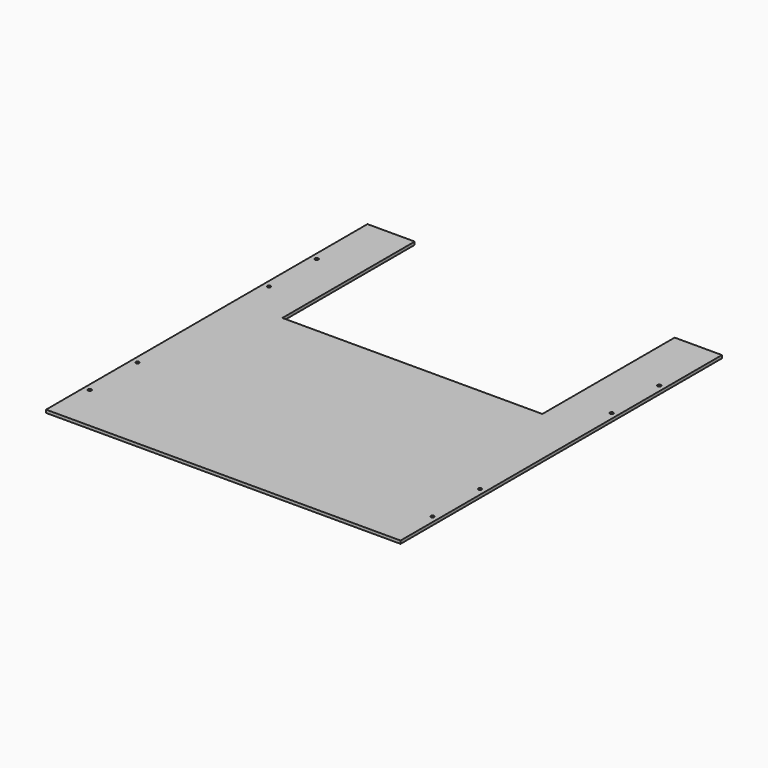
from build123d import *

# Parameters (mm, degrees)
F0_R     = 1.85
F1_DEPTH = 3.175


with BuildPart() as f1:
    # F0 (on Top) → F1 (new body)
    with BuildSketch(Plane.XY):
        Polygon((190.5, -215.9), (190.5, 215.9), (139.7, 215.9), (139.7, 38.1), (-139.7, 38.1), (-139.7, 215.9), (-190.5, 215.9), (-190.5, -215.9), align=None)
        with Locations((-184.15, -165.1)):
            Circle(F0_R, mode=Mode.SUBTRACT)
        with Locations((-184.15, -101.1)):
            Circle(F0_R, mode=Mode.SUBTRACT)
        with Locations((184.15, -165.1)):
            Circle(F0_R, mode=Mode.SUBTRACT)
        with Locations((184.15, -101.1)):
            Circle(F0_R, mode=Mode.SUBTRACT)
        with Locations((-184.15, 75.7)):
            Circle(F0_R, mode=Mode.SUBTRACT)
        with Locations((-184.15, 139.7)):
            Circle(F0_R, mode=Mode.SUBTRACT)
        with Locations((184.15, 75.7)):
            Circle(F0_R, mode=Mode.SUBTRACT)
        with Locations((184.15, 139.7)):
            Circle(F0_R, mode=Mode.SUBTRACT)
    extrude(amount=F1_DEPTH)


solid = f1.part
